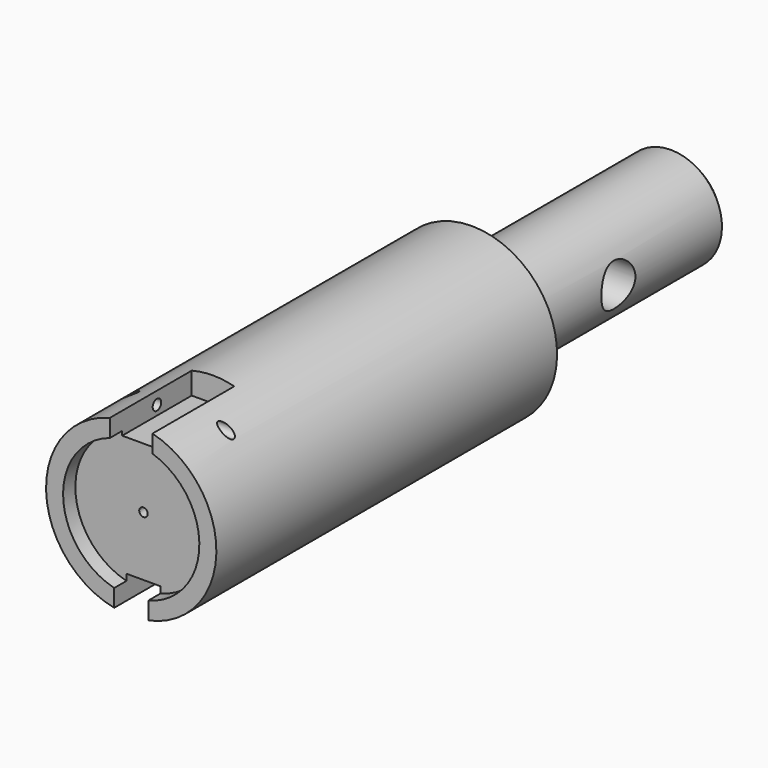
from build123d import *

# Parameters (mm, degrees)
F2_R           = 1.5875
F3_DEPTH       = 25.4
F6_DEPTH       = 2.54
F8_W           = 5.08
F8_H           = 12.7
F9_DEPTH       = 17.3480194062
F10_W          = 3.175
F10_H          = 3.175
F11_DEPTH      = 7.62
F12_R          = 0.396875
F13_DEPTH      = 25.4
F13_DEPTH_BACK = 25.4
F14_R          = 0.3175
F15_DEPTH      = 0.635
F16_R          = 0.635
F17_DEPTH      = 8.2660857588
F18_W          = 2.54
F18_H          = 3.8718514089
F19_DEPTH      = 25.4
F20_SIZE       = 0.508


with BuildPart() as f1:
    # F0 (on Right) → F1 (revolve)
    with BuildSketch(Plane.YZ):
        Polygon((26.67, 3.175), (26.67, 0), (50.8, 0), (50.8, 3.81), (31.75, 3.81), (31.75, 6.35), (0, 6.35), (0, 5.08), (1.143, 5.08), (1.143, 0.3175), (2.286, 0.3175), (2.286, 3.175), align=None)
    revolve(axis=Axis((0, 38.735, 0), (0, 1, 0)))

    # F2 (on Right) → F3 (cut)
    with BuildSketch(Plane.YZ):
        with Locations((40.64, 0)):
            Circle(F2_R)
    extrude(amount=F3_DEPTH, mode=Mode.SUBTRACT)

    # F5 (on offset) → F6 (cut)
    with BuildSketch(Plane.YZ.offset(-6.35)):
        with BuildLine():
            Line((4.7625, -1.5875), (23.8125, -1.5875))
            ThreePointArc((23.8125, -1.5875), (25.4, 0), (23.8125, 1.5875))
            Line((23.8125, 1.5875), (4.7625, 1.5875))
            ThreePointArc((4.7625, 1.5875), (3.175, 0), (4.7625, -1.5875))
        make_face()
    extrude(amount=F6_DEPTH, mode=Mode.SUBTRACT)

    # F8 (on offset) → F9 (cut)
    with BuildSketch(Plane.XZ.offset(-13.112607412)):
        with Locations((0, -7.6607518819)):
            Rectangle(F8_W, F8_H)
    extrude(amount=-F9_DEPTH, mode=Mode.SUBTRACT)

    # F10 (on face) → F11 (cut)
    with BuildSketch(Plane.XZ):
        with Locations((0, 6.0977916799)):
            Rectangle(F10_W, F10_H)
    extrude(amount=-F11_DEPTH, mode=Mode.SUBTRACT)

    # F12 (on face) → F13 (cut, two sides)
    with BuildSketch(Plane(origin=(1.5875, 0, 0), x_dir=(0, -1, 0), z_dir=(-1, 0, 0))) as f13_sk:
        with Locations((-4.3815, 5.2224572188)):
            Circle(F12_R)
    extrude(amount=-F13_DEPTH, mode=Mode.SUBTRACT)
    extrude(f13_sk.sketch, amount=F13_DEPTH_BACK, mode=Mode.SUBTRACT)

    # F14 (on face) → F15 (cut)
    with BuildSketch(Plane.XY.offset(4.5102916799)):
        with Locations((0, 6.35)):
            Circle(F14_R)
    extrude(amount=-F15_DEPTH, mode=Mode.SUBTRACT)

    # F16 (on face) → F17 (cut)
    with BuildSketch(Plane(origin=(0, 31.75, 0), x_dir=(-1, 0, 0), z_dir=(0, 1, 0))):
        with Locations((0, 5.08)):
            Circle(F16_R)
    extrude(amount=-F17_DEPTH, mode=Mode.SUBTRACT)

    # F18 (on face) → F19 (cut)
    with BuildSketch(Plane.XZ):
        with Locations((0, -6.3809257044)):
            Rectangle(F18_W, F18_H)
    extrude(amount=-F19_DEPTH, mode=Mode.SUBTRACT)

    # F20
    f20_edges = [f1.edges().sort_by_distance(p)[0] for p in [
        (0, 50.8, -3.81),
    ]]
    chamfer(f20_edges, length=F20_SIZE)


solid = f1.part
